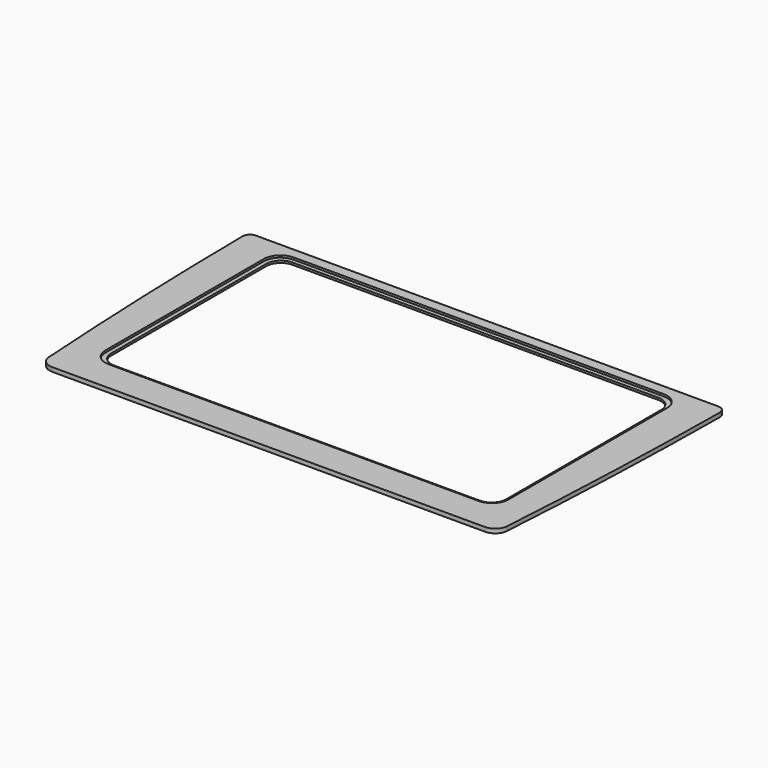
from build123d import *

# Parameters (mm, degrees)
PAD_DEPTH       = 2
FILLET_R        = 3.5
FILLET001_R     = 6
POCKET_DEPTH    = 1
POCKET001_DEPTH = 5


with BuildPart() as part:
    # Sketch → Pad (new body)
    with BuildSketch(Plane.XY):
        with BuildLine():
            Line((-114.5, 111), (114.5, 111))
            ThreePointArc((109.5, -20), (112.998546, 45.461888), (114.5, 111))
            Line((109.5, -20), (-109.5, -20))
            ThreePointArc((-114.5, 111), (-112.998546, 45.461888), (-109.5, -20))
        make_face()
    extrude(amount=PAD_DEPTH)

    # Fillet
    fillet_edges = [part.edges().sort_by_distance(p)[0] for p in [
        (114.5, 111, 1),
        (-114.5, 111, 1),
    ]]
    fillet(fillet_edges, radius=FILLET_R)

    # Fillet001
    fillet001_edges = [part.edges().sort_by_distance(p)[0] for p in [
        (109.5, -20, 1),
        (-109.5, -20, 1),
    ]]
    fillet(fillet001_edges, radius=FILLET001_R)

    # Sketch001 (on Face5 of Fillet001) → Pocket (cut)
    with BuildSketch(Plane.XY.offset(2)):
        with BuildLine():
            Line((-88.75, 106), (88.75, 106))
            ThreePointArc((96.75, 98), (94.406854, 103.656854), (88.75, 106))
            Line((96.75, 98), (96.75, 3))
            ThreePointArc((88.75, -5), (94.406854, -2.656854), (96.75, 3))
            Line((88.75, -5), (-88.75, -5))
            ThreePointArc((-96.75, 3), (-94.406854, -2.656854), (-88.75, -5))
            Line((-96.75, 3), (-96.75, 98))
            ThreePointArc((-88.75, 106), (-94.406854, 103.656854), (-96.75, 98))
        make_face()
    extrude(amount=-POCKET_DEPTH, mode=Mode.SUBTRACT)

    # Sketch002 (on Face19 of Pocket) → Pocket001 (cut)
    with BuildSketch(Plane.XY.offset(1)):
        with BuildLine():
            Line((-87.75, 104), (87.75, 104))
            ThreePointArc((94.75, 97), (92.699747, 101.949747), (87.75, 104))
            Line((94.75, 97), (94.75, 4))
            ThreePointArc((87.75, -3), (92.699747, -0.949747), (94.75, 4))
            Line((87.75, -3), (-87.75, -3))
            ThreePointArc((-94.75, 4), (-92.699747, -0.949747), (-87.75, -3))
            Line((-94.75, 4), (-94.75, 97))
            ThreePointArc((-87.75, 104), (-92.699747, 101.949747), (-94.75, 97))
        make_face()
    extrude(amount=-POCKET001_DEPTH, mode=Mode.SUBTRACT)


solid = part.part
